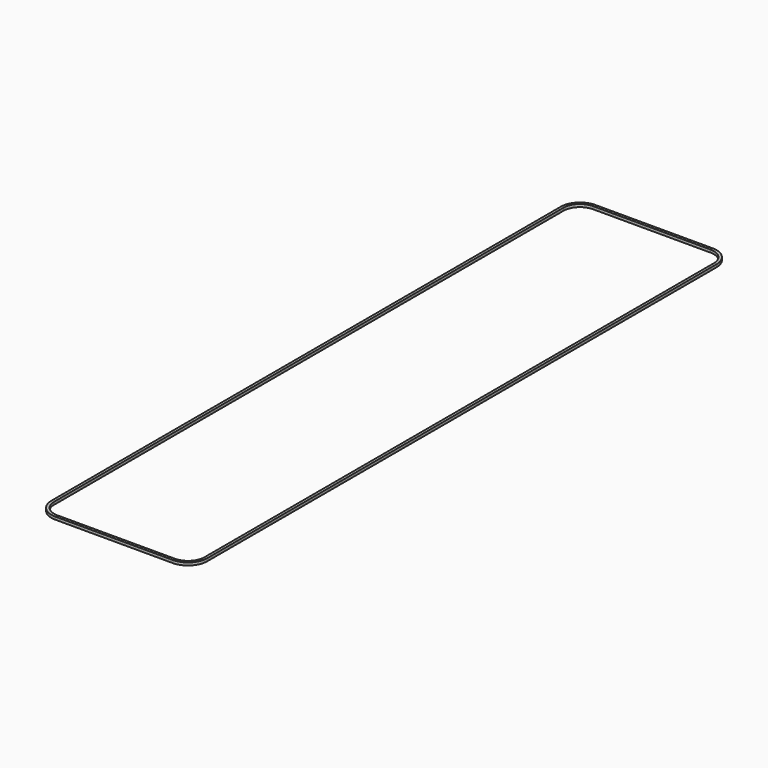
from build123d import *

# Parameters (mm, degrees)
BOX008_W     = 27.5
BOX008_H     = 122.5
BOX008_DEPTH = 0.5
FILLET005_R  = 3
BOX007_W     = 28.5
BOX007_H     = 123.5
BOX007_DEPTH = 0.5
FILLET004_R  = 3.5


with BuildPart() as fillet005:
    # Box008 → Box008 (new body)
    with BuildSketch(Plane(origin=(8, 22, 0), x_dir=(1, 0, 0), z_dir=(0, 0, 1))):
        with Locations((13.75, 61.25)):
            Rectangle(BOX008_W, BOX008_H)
    extrude(amount=BOX008_DEPTH)

    # Fillet005
    fillet005_edges = [fillet005.edges().sort_by_distance(p)[0] for p in [
        (8, 22, 0.25),
        (8, 144.5, 0.25),
        (35.5, 22, 0.25),
        (35.5, 144.5, 0.25),
    ]]
    fillet(fillet005_edges, radius=FILLET005_R)


with BuildPart() as fillet005_1:
    # Fillet005 placement: moved
    add(fillet005.part.moved(Location((0.5, 1, 0))))


with BuildPart() as cut005:
    # Box007 → Box007 (new body)
    with BuildSketch(Plane(origin=(8.5, 22.5, 0), x_dir=(1, 0, 0), z_dir=(0, 0, 1))):
        with Locations((14.25, 61.75)):
            Rectangle(BOX007_W, BOX007_H)
    extrude(amount=BOX007_DEPTH)

    # Fillet004
    fillet004_edges = [cut005.edges().sort_by_distance(p)[0] for p in [
        (8.5, 22.5, 0.25),
        (8.5, 146, 0.25),
        (37, 22.5, 0.25),
        (37, 146, 0.25),
    ]]
    fillet(fillet004_edges, radius=FILLET004_R)


with BuildPart() as cut005_1:
    # Fillet004 placement: moved
    add(cut005.part.moved(Location((-0.5, 0, 0))))

    # Cut005: cut Fillet005
    add(fillet005_1.part, mode=Mode.SUBTRACT)


solid = cut005_1.part
